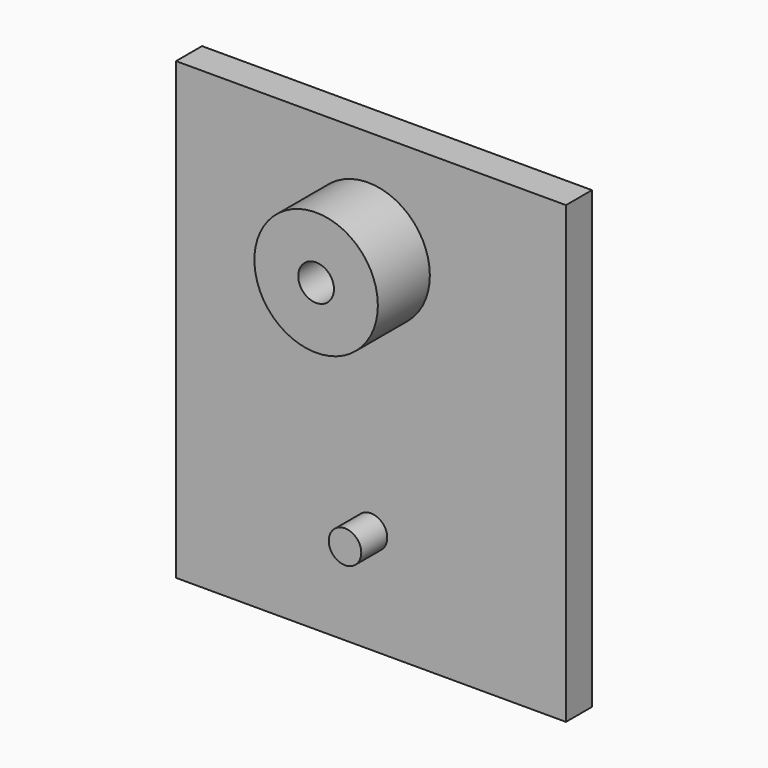
from build123d import *

# Parameters (mm, degrees)
F0_W     = 120
F0_H     = 140
F0_R     = 5
F1_DEPTH = 10
F2_DEPTH = 5
F3_R     = 5
F4_DEPTH = 10
F6_R     = 19
F6_R_2   = 5.5
F7_DEPTH = 20


with BuildPart() as f1:
    # F0 (on Front) → F1 (new body)
    with BuildSketch(Plane.XZ):
        Rectangle(F0_W, F0_H)
        with Locations((0, 38)):
            Circle(F0_R, mode=Mode.SUBTRACT)
        with Locations((0, 38)):
            Circle(F0_R)
    extrude(amount=F1_DEPTH)

    # F0 (on Front) → F2 (cut)
    with BuildSketch(Plane.XZ):
        with Locations((0, 38)):
            Circle(F0_R)
    extrude(amount=F2_DEPTH, mode=Mode.SUBTRACT)

    # F3 (on face) → F4 (join)
    with BuildSketch(Plane.XZ.offset(10)):
        with Locations((0, 38)):
            Circle(F3_R)
        with Locations((0, -38)):
            Circle(F3_R)
    extrude(amount=F4_DEPTH)


with BuildPart() as f7:
    # F6 (on offset) → F7 (new body)
    with BuildSketch(Plane.XZ.offset(11)):
        with Locations((-0.092058, 38)):
            Circle(F6_R)
        with Locations((-0.092058, 38)):
            Circle(F6_R_2, mode=Mode.SUBTRACT)
    extrude(amount=F7_DEPTH)


solid = Compound([f1.part, f7.part])
